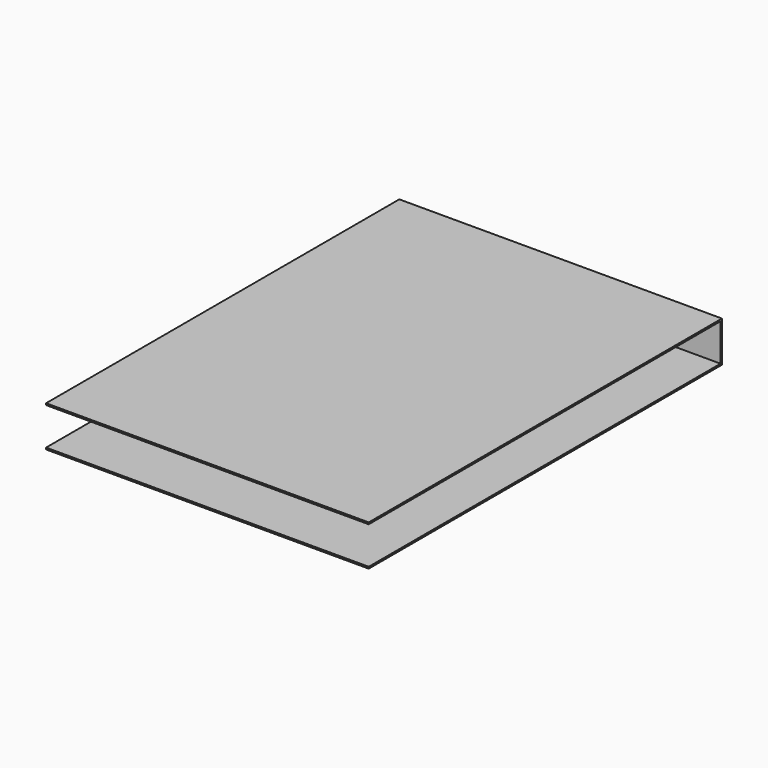
from build123d import *

# Parameters (mm, degrees)
BOX081_W     = 9.5
BOX081_H     = 12.95
BOX081_DEPTH = 1.1
BOX080_W     = 9.5
BOX080_H     = 13
BOX080_DEPTH = 1.2


with BuildPart() as small_cu_gnd_electrode026:
    # Box081 → Box081 (new body)
    with BuildSketch(Plane.XY.offset(0.05)):
        with Locations((4.75, 6.475)):
            Rectangle(BOX081_W, BOX081_H)
    extrude(amount=BOX081_DEPTH)


with BuildPart() as large_cu_electrode_long_axis_v_y:
    # Box080 → Box080 (new body)
    with BuildSketch(Plane.XY):
        with Locations((4.75, 6.5)):
            Rectangle(BOX080_W, BOX080_H)
    extrude(amount=BOX080_DEPTH)

    # Cut026: cut Small Cu GND Electrode026
    add(small_cu_gnd_electrode026.part, mode=Mode.SUBTRACT)


with BuildPart() as large_cu_electrode_long_axis_v_y_1:
    # Cut026 placement: moved
    add(large_cu_electrode_long_axis_v_y.part.moved(Location((-4.76, 9.63, 21.1))))


solid = large_cu_electrode_long_axis_v_y_1.part
